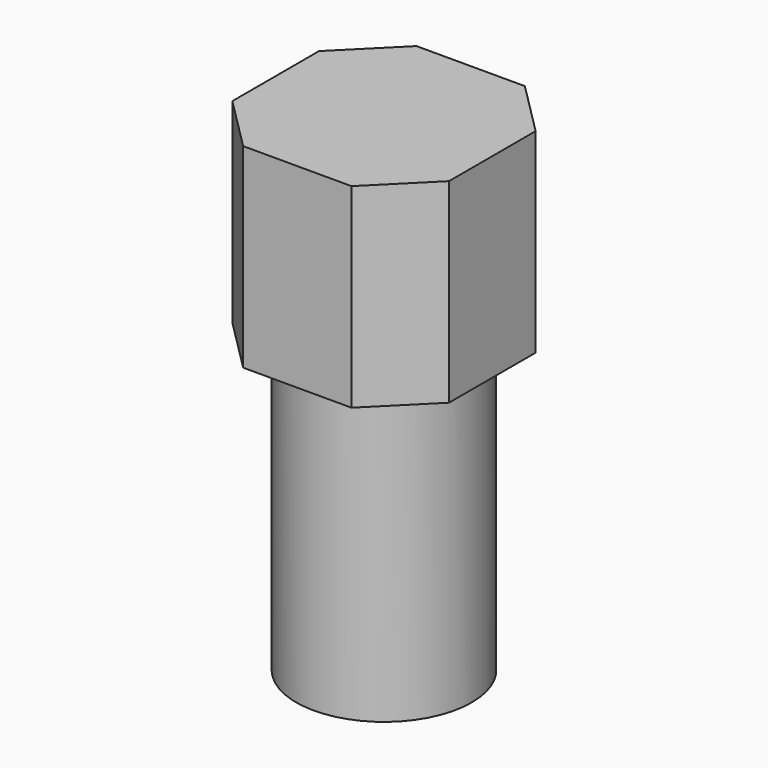
from build123d import *

# Parameters (mm, degrees)
F1_DEPTH = 14
F2_R     = 6.3
F3_DEPTH = 21


with BuildPart() as f1:
    # F0 (on Top) → F1 (new body)
    with BuildSketch(Plane.XY):
        Polygon((-3.8875, -7.775), (0, -7.775), (3.8875, -7.775), (7.775, -3.8875), (7.775, 3.8875), (3.8875, 7.775), (-3.8875, 7.775), (-7.775, 3.8875), (-7.775, -3.8875), align=None)
    extrude(amount=F1_DEPTH)

    # F2 (on face) → F3 (join)
    with BuildSketch(Plane(origin=(0, 0, 0), x_dir=(1, 0, 0), z_dir=(0, 0, -1))):
        Circle(F2_R)
    extrude(amount=F3_DEPTH)


solid = f1.part
